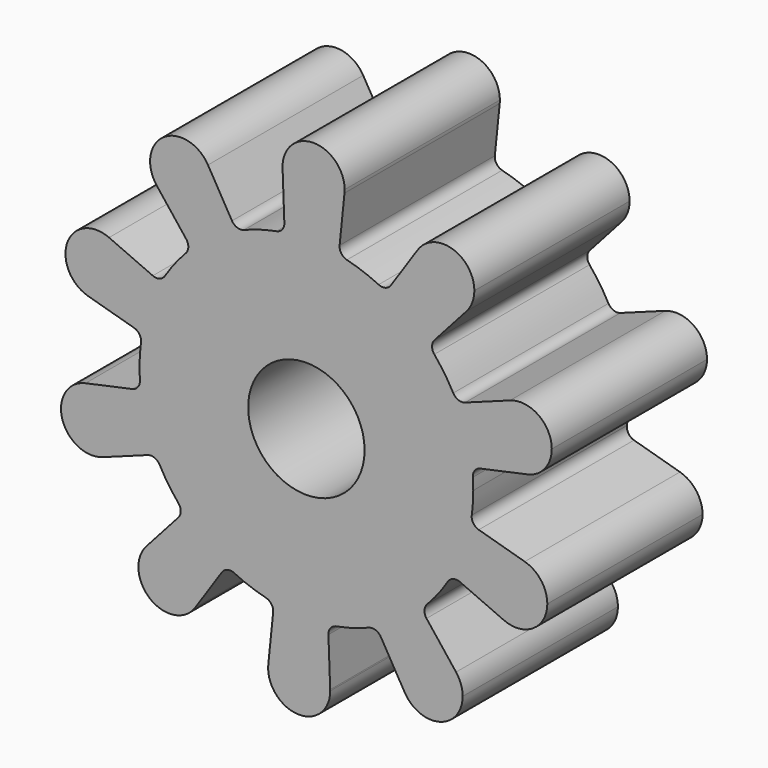
from build123d import *

# Parameters (mm, degrees)
F0_R     = 3
F1_DEPTH = 10


with BuildPart() as f1:
    # F0 (on Front) → F1 (new body)
    with BuildSketch(Plane.XZ):
        with BuildLine():
            ThreePointArc((8.523458, -1.144846), (8.580843, -0.573701), (8.6, 0))
            ThreePointArc((8.6, 0), (8.594903, 0.296051), (8.579617, 0.59175))
            ThreePointArc((8.579617, 0.59175), (8.26071, 2.391793), (7.568545, 4.083763))
            ThreePointArc((7.568545, 4.083763), (7.117297, 4.82743), (6.593234, 5.521708))
            ThreePointArc((6.593234, 5.521708), (5.277194, 6.790524), (3.722706, 7.752513))
            ThreePointArc((3.722706, 7.752513), (2.920522, 8.088915), (2.08846, 8.342562))
            ThreePointArc((2.08846, 8.342562), (0.27797, 8.595507), (-1.54508, 8.460067))
            ThreePointArc((-1.54508, 8.460067), (-2.391793, 8.26071), (-3.214035, 7.97684))
            ThreePointArc((-3.214035, 7.97684), (-4.82743, 7.117297), (-6.222699, 5.936162))
            ThreePointArc((-6.222699, 5.936162), (-6.790524, 5.277194), (-7.288878, 4.564237))
            ThreePointArc((-7.288878, 4.564237), (-8.088915, 2.920522), (-8.523458, 1.144846))
            ThreePointArc((-8.523458, 1.144846), (-8.595507, 0.27797), (-8.579617, -0.59175))
            ThreePointArc((-8.579617, -0.59175), (-8.26071, -2.391793), (-7.568545, -4.083763))
            ThreePointArc((-7.568545, -4.083763), (-7.117297, -4.82743), (-6.593234, -5.521708))
            ThreePointArc((-6.593234, -5.521708), (-5.277194, -6.790524), (-3.722706, -7.752513))
            ThreePointArc((-3.722706, -7.752513), (-2.920522, -8.088915), (-2.08846, -8.342562))
            ThreePointArc((-2.08846, -8.342562), (-0.27797, -8.595507), (1.54508, -8.460067))
            ThreePointArc((1.54508, -8.460067), (2.391793, -8.26071), (3.214035, -7.97684))
            ThreePointArc((3.214035, -7.97684), (4.82743, -7.117297), (6.222699, -5.936162))
            ThreePointArc((6.222699, -5.936162), (6.790524, -5.277194), (7.288878, -4.564237))
            ThreePointArc((7.288878, -4.564237), (8.088915, -2.920522), (8.523458, -1.144846))
        make_face()
        Circle(F0_R, mode=Mode.SUBTRACT)
        with BuildLine():
            ThreePointArc((7.568545, 4.083763), (8.26071, 2.391793), (8.579617, 0.59175))
            ThreePointArc((8.579617, 0.59175), (8.678841, 0.926698), (8.973122, 1.114938))
            Line((8.973122, 1.114938), (11.383292, 1.634219))
            ThreePointArc((11.383292, 1.634219), (9.509422, 2.753343), (10.495478, 4.700525))
            Line((10.495478, 4.700525), (8.180708, 3.851754))
            ThreePointArc((8.180708, 3.851754), (7.831378, 3.853644), (7.568545, 4.083763))
        make_face()
        with BuildLine():
            ThreePointArc((8.882336, -1.692365), (8.600833, -1.485505), (8.523458, -1.144846))
            ThreePointArc((8.523458, -1.144846), (8.088915, -2.920522), (7.288878, -4.564237))
            ThreePointArc((7.288878, -4.564237), (7.566029, -4.35158), (7.914752, -4.372265))
            Line((7.914752, -4.372265), (10.169846, -5.36882))
            ThreePointArc((10.169846, -5.36882), (9.311658, -3.361997), (11.25392, -2.366283))
            Line((11.25392, -2.366283), (8.882336, -1.692365))
        make_face()
        with BuildLine():
            ThreePointArc((3.722706, 7.752513), (5.277194, 6.790524), (6.593234, 5.521708))
            ThreePointArc((6.593234, 5.521708), (6.47663, 5.851009), (6.604064, 6.176272))
            Line((6.604064, 6.176272), (8.248707, 8.013042))
            ThreePointArc((8.248707, 8.013042), (6.07491, 7.816999), (5.728121, 9.971892))
            Line((5.728121, 9.971892), (4.354328, 7.924634))
            ThreePointArc((4.354328, 7.924634), (4.070602, 7.720832), (3.722706, 7.752513))
        make_face()
        with BuildLine():
            ThreePointArc((10.495478, 4.700525), (9.509422, 2.753343), (11.383292, 1.634219))
            ThreePointArc((11.383292, 1.634219), (12.291125, 2.193138), (12.646298, 3.198328))
            ThreePointArc((12.646298, 3.198328), (11.962455, 4.510065), (10.495478, 4.700525))
        make_face()
        with BuildLine():
            ThreePointArc((6.191214, -6.590058), (6.085062, -6.257241), (6.222699, -5.936162))
            ThreePointArc((6.222699, -5.936162), (4.82743, -7.117297), (3.214035, -7.97684))
            ThreePointArc((3.214035, -7.97684), (3.563252, -7.967703), (3.833216, -8.189411))
            Line((3.833216, -8.189411), (5.071865, -10.321152))
            ThreePointArc((5.071865, -10.321152), (5.557158, -8.193168), (7.713746, -8.529251))
            Line((7.713746, -8.529251), (6.191214, -6.590058))
        make_face()
        with BuildLine():
            ThreePointArc((12.416573, -3.90535), (12.093239, -2.940921), (11.25392, -2.366283))
            ThreePointArc((11.25392, -2.366283), (9.311658, -3.361997), (10.169846, -5.36882))
            ThreePointArc((10.169846, -5.36882), (11.689853, -5.246014), (12.416573, -3.90535))
        make_face()
        with BuildLine():
            ThreePointArc((-1.54508, 8.460067), (0.27797, 8.595507), (2.08846, 8.342562))
            ThreePointArc((2.08846, 8.342562), (1.800567, 8.540434), (1.712478, 8.878481))
            Line((1.712478, 8.878481), (1.963396, 11.331155))
            ThreePointArc((1.963396, 11.331155), (0.319988, 9.894827), (-1.227184, 11.434335))
            Line((-1.227184, 11.434335), (-1.135258, 8.970573))
            ThreePointArc((-1.135258, 8.970573), (-1.245005, 8.638924), (-1.54508, 8.460067))
        make_face()
        with BuildLine():
            ThreePointArc((5.728121, 9.971892), (6.07491, 7.816999), (8.248707, 8.013042))
            ThreePointArc((8.248707, 8.013042), (8.551235, 8.509034), (8.656713, 9.080352))
            ThreePointArc((8.656713, 9.080352), (7.522681, 10.610997), (5.728121, 9.971892))
        make_face()
        with BuildLine():
            ThreePointArc((1.135258, -8.970573), (1.245005, -8.638924), (1.54508, -8.460067))
            ThreePointArc((1.54508, -8.460067), (-0.27797, -8.595507), (-2.08846, -8.342562))
            ThreePointArc((-2.08846, -8.342562), (-1.800567, -8.540434), (-1.712478, -8.878481))
            Line((-1.712478, -8.878481), (-1.963396, -11.331155))
            ThreePointArc((-1.963396, -11.331155), (-0.319988, -9.894827), (1.227184, -11.434335))
            Line((1.227184, -11.434335), (1.135258, -8.970573))
        make_face()
        with BuildLine():
            ThreePointArc((8.055284, -9.517316), (7.967491, -8.994602), (7.713746, -8.529251))
            ThreePointArc((7.713746, -8.529251), (5.557158, -8.193168), (5.071865, -10.321152))
            ThreePointArc((5.071865, -10.321152), (6.871535, -11.062222), (8.055284, -9.517316))
        make_face()
        with BuildLine():
            ThreePointArc((-6.222699, 5.936162), (-4.82743, 7.117297), (-3.214035, 7.97684))
            ThreePointArc((-3.214035, 7.97684), (-3.563252, 7.967703), (-3.833216, 8.189411))
            Line((-3.833216, 8.189411), (-5.071865, 10.321152))
            ThreePointArc((-5.071865, 10.321152), (-4.910378, 9.933567), (-4.855284, 9.517316))
            ThreePointArc((-4.855284, 9.517316), (-5.93257, 8.005109), (-7.713746, 8.529251))
            Line((-7.713746, 8.529251), (-6.191214, 6.590058))
            ThreePointArc((-6.191214, 6.590058), (-6.085062, 6.257241), (-6.222699, 5.936162))
        make_face()
        with BuildLine():
            ThreePointArc((-1.227184, 11.434335), (0.319988, 9.894827), (1.963396, 11.331155))
            ThreePointArc((1.963396, 11.331155), (1.969625, 11.412467), (1.971704, 11.493991))
            ThreePointArc((1.971704, 11.493991), (0.34187, 13.093713), (-1.227184, 11.434335))
        make_face()
        with BuildLine():
            ThreePointArc((-4.354328, -7.924634), (-4.070602, -7.720832), (-3.722706, -7.752513))
            ThreePointArc((-3.722706, -7.752513), (-5.277194, -6.790524), (-6.593234, -5.521708))
            ThreePointArc((-6.593234, -5.521708), (-6.47663, -5.851009), (-6.604064, -6.176272))
            Line((-6.604064, -6.176272), (-8.248707, -8.013042))
            ThreePointArc((-8.248707, -8.013042), (-6.485394, -7.585831), (-5.456713, -9.080352))
            ThreePointArc((-5.456713, -9.080352), (-5.526068, -9.546321), (-5.728121, -9.971892))
            Line((-5.728121, -9.971892), (-4.354328, -7.924634))
        make_face()
        with BuildLine():
            ThreePointArc((1.228296, -11.493991), (1.228018, -11.464158), (1.227184, -11.434335))
            ThreePointArc((1.227184, -11.434335), (-0.319988, -9.894827), (-1.963396, -11.331155))
            ThreePointArc((-1.963396, -11.331155), (-0.453228, -13.091913), (1.228296, -11.493991))
        make_face()
        with BuildLine():
            ThreePointArc((-8.523458, 1.144846), (-8.088915, 2.920522), (-7.288878, 4.564237))
            ThreePointArc((-7.288878, 4.564237), (-7.566029, 4.35158), (-7.914752, 4.372265))
            Line((-7.914752, 4.372265), (-10.169846, 5.36882))
            ThreePointArc((-10.169846, 5.36882), (-9.475908, 4.77863), (-9.216573, 3.90535))
            ThreePointArc((-9.216573, 3.90535), (-9.852144, 2.628683), (-11.25392, 2.366283))
            Line((-11.25392, 2.366283), (-8.882336, 1.692365))
            ThreePointArc((-8.882336, 1.692365), (-8.600833, 1.485505), (-8.523458, 1.144846))
        make_face()
        with BuildLine():
            ThreePointArc((-4.855284, 9.517316), (-4.910378, 9.933567), (-5.071865, 10.321152))
            ThreePointArc((-5.071865, 10.321152), (-7.353411, 10.841465), (-7.713746, 8.529251))
            ThreePointArc((-7.713746, 8.529251), (-5.93257, 8.005109), (-4.855284, 9.517316))
        make_face()
        with BuildLine():
            ThreePointArc((-8.180708, -3.851754), (-7.831378, -3.853644), (-7.568545, -4.083763))
            ThreePointArc((-7.568545, -4.083763), (-8.26071, -2.391793), (-8.579617, -0.59175))
            ThreePointArc((-8.579617, -0.59175), (-8.678841, -0.926698), (-8.973122, -1.114938))
            Line((-8.973122, -1.114938), (-11.383292, -1.634219))
            ThreePointArc((-11.383292, -1.634219), (-10.041109, -1.9535), (-9.446298, -3.198328))
            ThreePointArc((-9.446298, -3.198328), (-9.73456, -4.114485), (-10.495478, -4.700525))
            Line((-10.495478, -4.700525), (-8.180708, -3.851754))
        make_face()
        with BuildLine():
            ThreePointArc((-8.248707, -8.013042), (-8.038517, -10.343706), (-5.728121, -9.971892))
            ThreePointArc((-5.728121, -9.971892), (-5.526068, -9.546321), (-5.456713, -9.080352))
            ThreePointArc((-5.456713, -9.080352), (-6.485394, -7.585831), (-8.248707, -8.013042))
        make_face()
        with BuildLine():
            ThreePointArc((-9.216573, 3.90535), (-9.475908, 4.77863), (-10.169846, 5.36882))
            ThreePointArc((-10.169846, 5.36882), (-12.321487, 4.448703), (-11.25392, 2.366283))
            ThreePointArc((-11.25392, 2.366283), (-9.852144, 2.628683), (-9.216573, 3.90535))
        make_face()
        with BuildLine():
            ThreePointArc((-11.383292, -1.634219), (-12.583174, -3.643312), (-10.495478, -4.700525))
            ThreePointArc((-10.495478, -4.700525), (-9.73456, -4.114485), (-9.446298, -3.198328))
            ThreePointArc((-9.446298, -3.198328), (-10.041109, -1.9535), (-11.383292, -1.634219))
        make_face()
    extrude(amount=F1_DEPTH)


solid = f1.part
